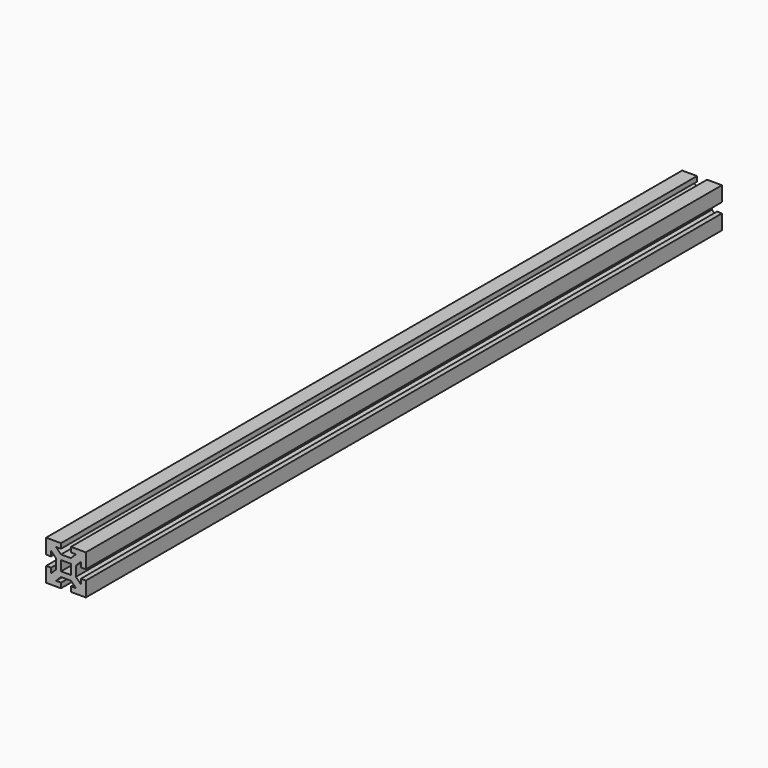
from build123d import *

# Parameters (mm, degrees)
F1_DEPTH = 800


with BuildPart() as f1:
    # F0 (on Front) → F1 (new body)
    with BuildSketch(Plane.XZ):
        Polygon((20, 5), (20, 20), (5, 20), (5, 15), (10, 15), (5, 10), (-5, 10), (-10, 15), (-5, 15), (-5, 20), (-20, 20), (-20, 5), (-15, 5), (-15, 10), (-10, 5), (-10, -5), (-15, -10), (-15, -5), (-20, -5), (-20, -20), (-5, -20), (-5, -15), (-10, -15), (-5, -10), (5, -10), (10, -15), (5, -15), (5, -20), (20, -20), (20, -5), (15, -5), (15, -10), (10, -5), (10, 5), (15, 10), (15, 5), align=None)
        Polygon((-5, 0), (-5, 5), (0, 5), (5, 5), (5, 0), (5, -5), (0, -5), (-5, -5), align=None, mode=Mode.SUBTRACT)
    extrude(amount=F1_DEPTH)


solid = f1.part
